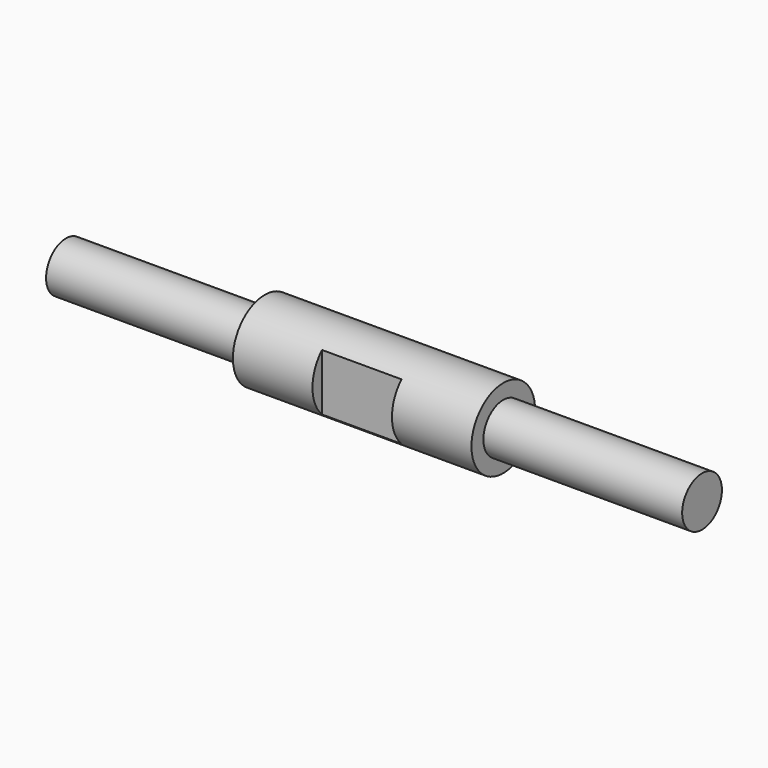
from build123d import *

# Parameters (mm, degrees)
F3_W     = 25.4
F3_H     = 7.62
F4_DEPTH = 25.4


with BuildPart() as f1:
    # F0 (on Front) → F1 (revolve)
    with BuildSketch(Plane.XZ):
        Polygon((-101.6, 7.9375), (-101.6, 0), (101.6, 0), (101.6, 7.9375), (38.1, 7.9375), (38.1, 12.7), (-38.1, 12.7), (-38.1, 7.9375), align=None)
    revolve(axis=Axis((0, 0, 0), (-1, 0, 0)))

    # F3 (on offset) → F4 (cut)
    with BuildSketch(Plane.XY.offset(12.7)):
        with Locations((0, 12.7)):
            Rectangle(F3_W, F3_H)
        with Locations((0, -12.7)):
            Rectangle(F3_W, F3_H)
    extrude(amount=-F4_DEPTH, mode=Mode.SUBTRACT)


solid = f1.part
